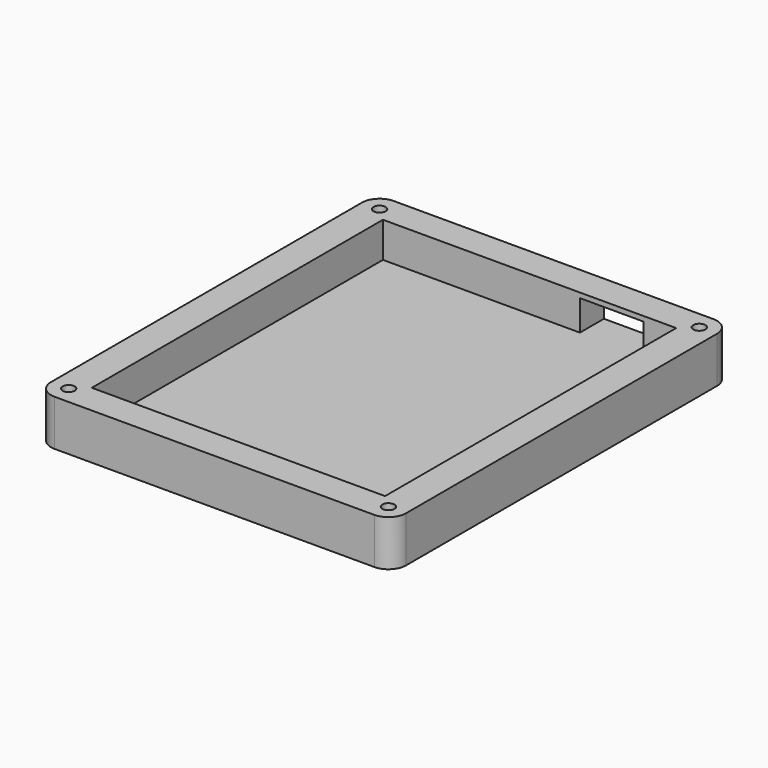
from build123d import *

# Parameters (mm, degrees)
SKETCH_R        = 1.7
PAD_DEPTH       = 13
SKETCH001_W     = 83
SKETCH001_H     = 103
POCKET_DEPTH    = 10
SKETCH002_W     = 18
SKETCH002_H     = 8.6
POCKET001_DEPTH = 11
SKETCH004_R     = 3
POCKET002_DEPTH = 3.1
SKETCH006_R     = 3
POCKET003_DEPTH = 3.1
SKETCH007_R     = 3
POCKET004_DEPTH = 3.1
SKETCH005_R     = 3
POCKET005_DEPTH = 3.1


with BuildPart() as part:
    # Sketch → Pad (new body)
    with BuildSketch(Plane.XY):
        with BuildLine():
            ThreePointArc((-45.25, 60), (-48.785534, 58.535534), (-50.25, 55))
            Line((-50.25, -55), (-50.25, 55))
            ThreePointArc((-50.25, -55), (-48.785534, -58.535534), (-45.25, -60))
            Line((45.25, -60), (-45.25, -60))
            ThreePointArc((45.25, -60), (48.785534, -58.535534), (50.25, -55))
            Line((50.25, 55), (50.25, -55))
            ThreePointArc((50.25, 55), (48.785534, 58.535534), (45.25, 60))
            Line((-45.25, 60), (45.25, 60))
        make_face()
        with Locations((-45.25, 55)):
            Circle(SKETCH_R, mode=Mode.SUBTRACT)
        with Locations((45.25, 55)):
            Circle(SKETCH_R, mode=Mode.SUBTRACT)
        with Locations((45.25, -55)):
            Circle(SKETCH_R, mode=Mode.SUBTRACT)
        with Locations((-45.25, -55)):
            Circle(SKETCH_R, mode=Mode.SUBTRACT)
    extrude(amount=PAD_DEPTH)

    # Sketch001 (on Face14 of Pad) → Pocket (cut)
    with BuildSketch(Plane.XY.offset(13)):
        Rectangle(SKETCH001_W, SKETCH001_H)
    extrude(amount=-POCKET_DEPTH, mode=Mode.SUBTRACT)

    # Sketch002 (on Face2 of Pocket) → Pocket001 (cut)
    with BuildSketch(Plane(origin=(0, 60, 0), x_dir=(-1, 0, 0), z_dir=(0, 1, 0))):
        with Locations((-23.25, 7.3)):
            Rectangle(SKETCH002_W, SKETCH002_H)
    extrude(amount=-POCKET001_DEPTH, mode=Mode.SUBTRACT)

    # Sketch004 (on Face4 of Pocket001) → Pocket002 (cut)
    with BuildSketch(Plane(origin=(0, 0, 0), x_dir=(1, 0, 0), z_dir=(0, 0, -1))):
        with Locations((-45.25, -55)):
            Circle(SKETCH004_R)
    extrude(amount=-POCKET002_DEPTH, mode=Mode.SUBTRACT)

    # Sketch006 (on Face4 of Pocket001) → Pocket003 (cut)
    with BuildSketch(Plane(origin=(0, 0, 0), x_dir=(1, 0, 0), z_dir=(0, 0, -1))):
        with Locations((-45.25, 55)):
            Circle(SKETCH006_R)
    extrude(amount=-POCKET003_DEPTH, mode=Mode.SUBTRACT)

    # Sketch007 (on Face4 of Pocket001) → Pocket004 (cut)
    with BuildSketch(Plane(origin=(0, 0, 0), x_dir=(1, 0, 0), z_dir=(0, 0, -1))):
        with Locations((45.25, 55)):
            Circle(SKETCH007_R)
    extrude(amount=-POCKET004_DEPTH, mode=Mode.SUBTRACT)

    # Sketch005 (on Face4 of Pocket001) → Pocket005 (cut)
    with BuildSketch(Plane(origin=(0, 0, 0), x_dir=(1, 0, 0), z_dir=(0, 0, -1))):
        with Locations((45.25, -55)):
            Circle(SKETCH005_R)
    extrude(amount=-POCKET005_DEPTH, mode=Mode.SUBTRACT)


solid = part.part
